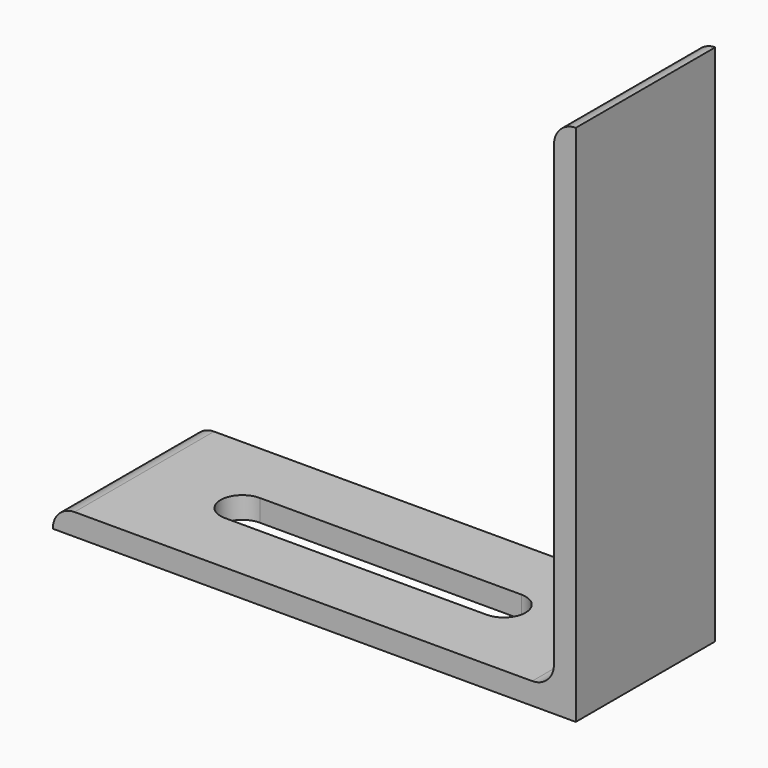
from build123d import *

# Parameters (mm, degrees)
F1_DEPTH = 25.4
F3_DEPTH = 3.176


with BuildPart() as f1:
    # F0 (on Front) → F1 (new body)
    with BuildSketch(Plane.XZ):
        with BuildLine():
            ThreePointArc((3.175, 3.175), (0.929936, 2.245064), (0, 0))
            Line((0, 0), (76.2, 0))
            Line((76.2, 0), (76.2, 76.2))
            ThreePointArc((76.2, 76.2), (73.954936, 75.270064), (73.025, 73.025))
            Line((73.025, 73.025), (73.025, 6.35))
            ThreePointArc((73.025, 6.35), (72.095064, 4.104936), (69.85, 3.175))
            Line((69.85, 3.175), (3.175, 3.175))
        make_face()
    extrude(amount=F1_DEPTH)

    # F2 (on face) → F3 (cut, through all)
    with BuildSketch(Plane.XY.offset(3.175)):
        with BuildLine():
            Line((55.5625, -9.525), (17.4625, -9.525))
            ThreePointArc((17.4625, -9.525), (14.2875, -12.7), (17.4625, -15.875))
            Line((17.4625, -15.875), (55.5625, -15.875))
            ThreePointArc((55.5625, -15.875), (58.7375, -12.7), (55.5625, -9.525))
        make_face()
    extrude(amount=-F3_DEPTH, mode=Mode.SUBTRACT)


solid = f1.part
